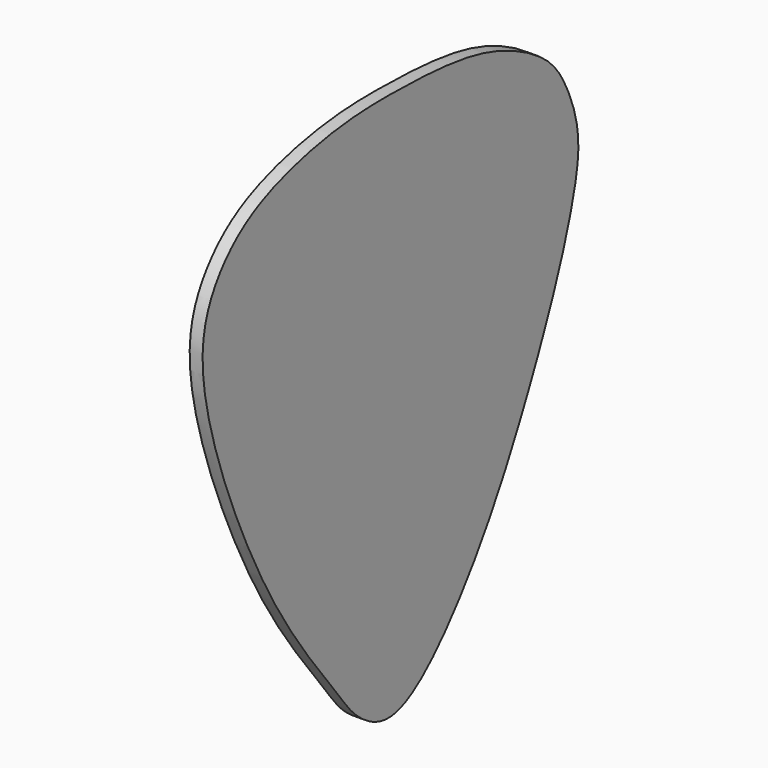
from build123d import *

# Parameters (mm, degrees)
F1_DEPTH = 1.143


with BuildPart() as f1:
    # F0 (on Right) → F1 (new body)
    with BuildSketch(Plane.YZ):
        with BuildLine():
            add(Edge.make_bspline(
                [(-18.4637773782, 29.9637038261), (-16.0460673266, 29.9550285942), (-10.9944243429, 29.7588081156), (-5.7587045804, 28.4987768743), (-0.790295018, 25.8092933118), (1.2486290735, 22.6413155477), (2.7529590472, 18.3620867806), (1.9612719383, 13.6696132128), (0.0219625973, 7.7984443035), (-2.8008340917, 1.1970512252), (-7.5884630895, -8.5449824288), (-14.3765695898, -17.216661287), (-19.0317383466, -19.0929103577), (-22.4600040044, -16.7720096773), (-24.3940206135, -13.8520315284), (-32.3772512275, -4.3265599338), (-40.5674812699, 16.0071789938), (-37.9518142226, 23.5188350295), (-33.2098008225, 27.7509800392), (-25.0225255935, 29.8064249604), (-20.7530025562, 29.9719180283), (-18.4637773782, 29.9637038261)],
                knots=[0, 0, 0, 0, 0.0547097308, 0.1018777539, 0.1483233851, 0.1868743942, 0.2285086147, 0.2718599205, 0.3212621259, 0.3749691791, 0.4421415343, 0.5086372345, 0.5503029758, 0.5878434509, 0.6241301988, 0.6948793339, 0.7888139349, 0.8420578163, 0.8907616888, 0.94819772, 1, 1, 1, 1], degree=3))
        make_face()
    extrude(amount=F1_DEPTH)


solid = f1.part
